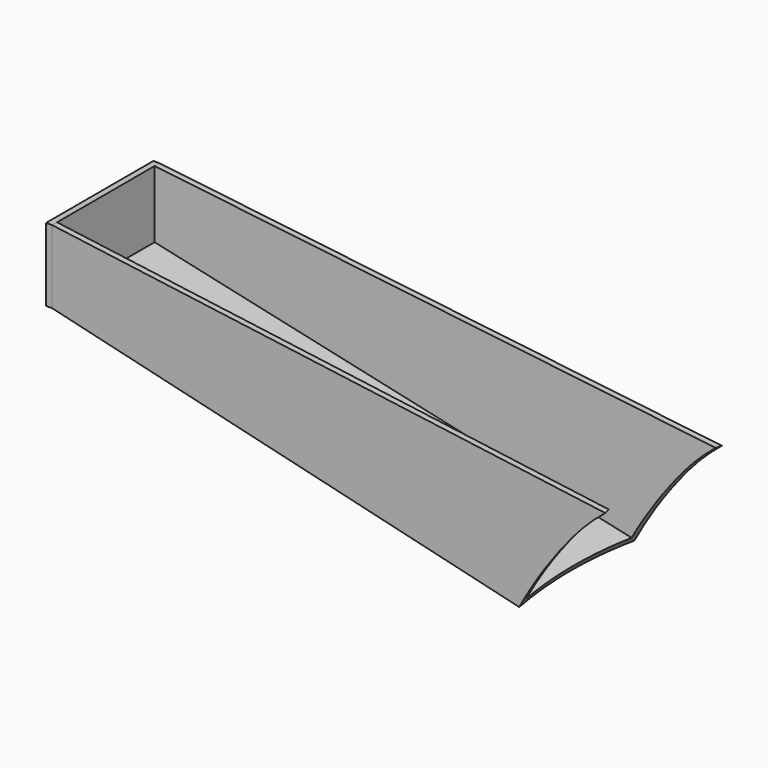
from build123d import *

# Parameters (mm, degrees)
SKETCH113_W  = 69.85
SKETCH113_H  = 38.1
PAD024_DEPTH = 3.175


with BuildPart() as part:
    # Sketch111 → AdditiveLoft001 section 0
    with BuildSketch(Plane(origin=(-254, 0, 101.6), x_dir=(0, 1, 0), z_dir=(1, 0, 0))):
        Polygon((-38.1, 69.85), (-38.1, 0), (38.1, 0), (38.1, 69.8500000001), (34.925, 69.8500000001), (34.925, 3.175), (-34.925, 3.175), (-34.925, 69.85), align=None)
    # Sketch112 → AdditiveLoft001 section 1
    with BuildSketch(Plane(origin=(-558.8, 0, 127), x_dir=(0, 1, 0), z_dir=(1, 0, 0))):
        Polygon((-34.925, 82.55), (-34.925, 44.45), (34.925, 44.45), (34.925, 82.55), (31.75, 82.55), (31.75, 47.625), (-31.75, 47.625), (-31.75, 82.55), align=None)
    loft()

    # Sketch113 (on Face3 of AdditiveLoft001) → Pad024 (new body)
    with BuildSketch(Plane(origin=(-558.8, 0, 101.6), x_dir=(0, 1, 0), z_dir=(-1, 0, 0))):
        with Locations((0, -88.9)):
            Rectangle(SKETCH113_W, SKETCH113_H)
    extrude(amount=PAD024_DEPTH)

    # Sketch114 → Groove (revolve, cut)
    with BuildSketch(Plane.XZ):
        with BuildLine():
            ThreePointArc((-285.6448342114, 160.9012244898), (-330.0079117171, 85.8263739972), (-345.44, 0))
            Line((-345.44, 0), (0, 0))
            Line((0, 203.2), (0, 0))
            Line((-193.3141946016, 203.2), (0, 203.2))
            ThreePointArc((-193.3141946016, 203.2), (-244.0934556744, 192.1220184086), (-285.6448342114, 160.9012244898))
        make_face()
    revolve(axis=Axis((0, 0, 0), (1, 0, 0)), mode=Mode.SUBTRACT)


solid = part.part
